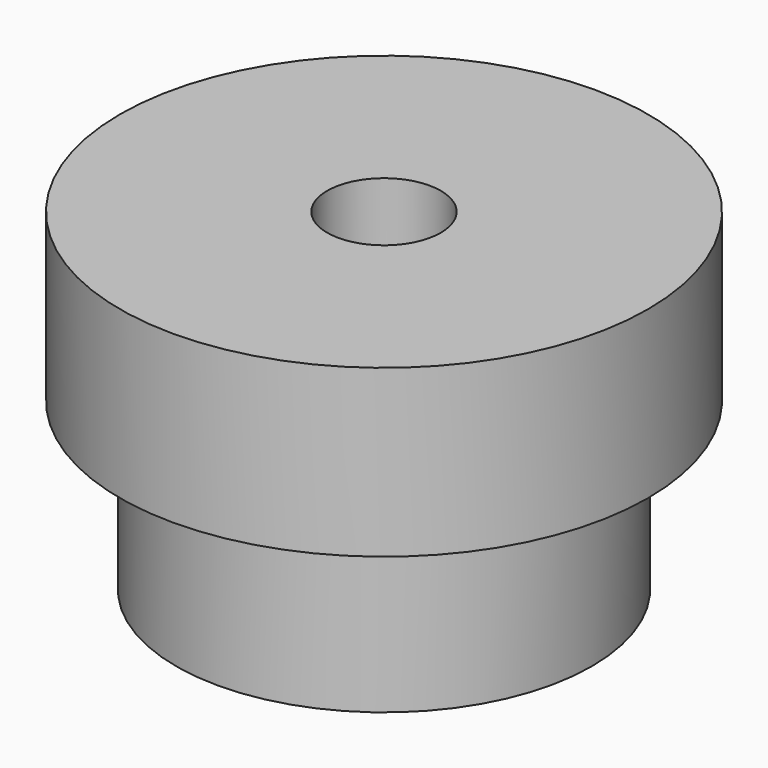
from build123d import *

# Parameters (mm, degrees)
F0_R     = 9.525
F0_R_2   = 7.5
F0_R_3   = 6.0325
F0_R_4   = 2.05
F1_DEPTH = 6
F2_DEPTH = 6


with BuildPart() as f1:
    # F0 (on Top) → F1 (new body)
    with BuildSketch(Plane.XY):
        Circle(F0_R)
        Circle(F0_R_2, mode=Mode.SUBTRACT)
        Circle(F0_R_2)
        Circle(F0_R_3, mode=Mode.SUBTRACT)
        Circle(F0_R_3)
        Circle(F0_R_4, mode=Mode.SUBTRACT)
    extrude(amount=F1_DEPTH)

    # F0 (on Top) → F2 (join)
    with BuildSketch(Plane.XY):
        Circle(F0_R_2)
        Circle(F0_R_3, mode=Mode.SUBTRACT)
    extrude(amount=-F2_DEPTH)


solid = f1.part
